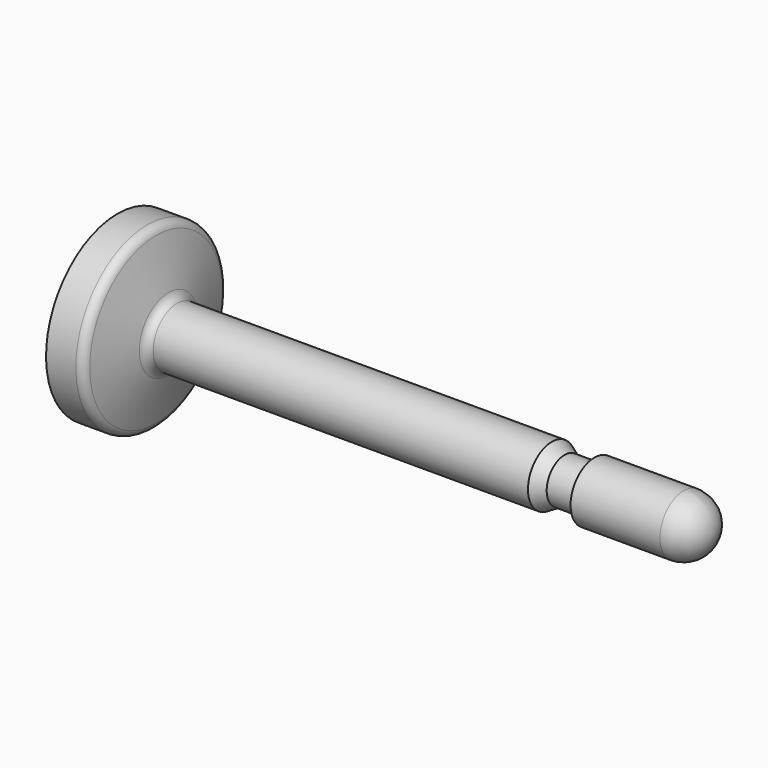
from build123d import *


with BuildPart() as f1:
    # F0 (on Front) → F1 (revolve)
    with BuildSketch(Plane.XZ):
        with BuildLine():
            Line((-63.5, 9.525), (-63.5, 0))
            Line((-63.5, 0), (0, 0))
            ThreePointArc((0, 0), (-0.929936, 2.245064), (-3.175, 3.175))
            Line((-3.175, 3.175), (-12.7, 3.175))
            Line((-12.7, 3.175), (-12.7, 2.3876))
            Line((-12.7, 2.3876), (-15.875, 2.3876))
            Line((-15.875, 2.3876), (-17.238817, 3.175))
            Line((-17.238817, 3.175), (-57.161765, 3.175))
            ThreePointArc((-57.161765, 3.175), (-57.74161, 3.371831), (-58.081809, 3.880975))
            Line((-58.081809, 3.880975), (-59.404956, 8.819025))
            ThreePointArc((-59.404956, 8.819025), (-59.745155, 9.328169), (-60.325, 9.525))
            Line((-60.325, 9.525), (-63.5, 9.525))
        make_face()
    revolve(axis=Axis((-38.125068, 0, 0), (1, 0, 0)))


solid = f1.part
